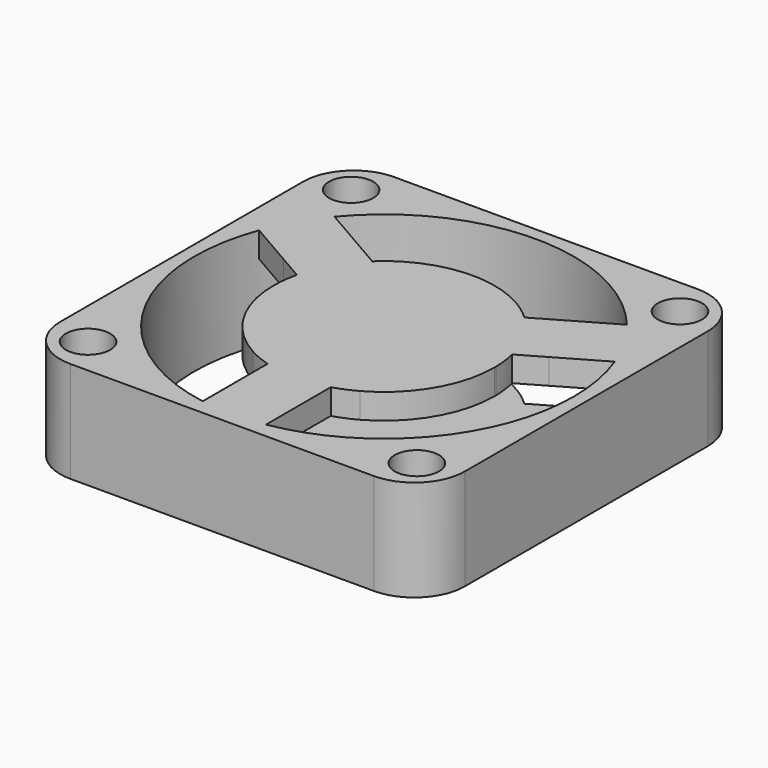
from build123d import *

# Parameters (mm, degrees)
F0_W     = 40.64
F0_H     = 40.64
F0_R     = 2.2225
F0_R_2   = 19.05
F1_DEPTH = 10.16
F3_DEPTH = 2.54
F5_DEPTH = 2.54
F6_R     = 5.08
F7_R     = 5.08
F8_R     = 5.08
F9_R     = 5.08


with BuildPart() as f1:
    # F0 (on Top) → F1 (new body)
    with BuildSketch(Plane.XY):
        with Locations((-48.7815736455, 48.0486563069)):
            Rectangle(F0_W, F0_H)
        with Locations((-65.2915736455, 31.5386563069)):
            Circle(F0_R, mode=Mode.SUBTRACT)
        with Locations((-32.2715736455, 31.5386563069)):
            Circle(F0_R, mode=Mode.SUBTRACT)
        with Locations((-48.7815736455, 48.0486563069)):
            Circle(F0_R_2, mode=Mode.SUBTRACT)
        with Locations((-65.2915736455, 64.5586563069)):
            Circle(F0_R, mode=Mode.SUBTRACT)
        with Locations((-32.2715736455, 64.5586563069)):
            Circle(F0_R, mode=Mode.SUBTRACT)
    extrude(amount=F1_DEPTH)

    # F2 (on face) → F3 (join)
    with BuildSketch(Plane(origin=(0, 0, 0), x_dir=(1, 0, 0), z_dir=(0, 0, -1))):
        with BuildLine():
            Line((-65.2793575876, -57.5736563069), (-58.405280945, -53.6049063069))
            ThreePointArc((-58.405280945, -53.6049063069), (-59.1066149083, -52.157327524), (-59.5916152386, -50.6236625213))
            Line((-59.5916152386, -50.6236625213), (-62.1043575876, -52.0743949928))
            Line((-62.1043575876, -52.0743949928), (-65.2793575876, -57.5736563069))
        make_face()
        with BuildLine():
            ThreePointArc((-65.2793575876, -57.5736563069), (-64.4250288468, -58.9199400104), (-63.4611079864, -60.1900636195))
            Line((-63.4611079864, -60.1900636195), (-58.9293575876, -57.5736563069))
            Line((-58.9293575876, -57.5736563069), (-65.2793575876, -57.5736563069))
        make_face()
        with BuildLine():
            ThreePointArc((-56.4166152386, -56.1229238353), (-57.5023079267, -54.9360687271), (-58.405280945, -53.6049063069))
            Line((-58.405280945, -53.6049063069), (-65.2793575876, -57.5736563069))
            Line((-65.2793575876, -57.5736563069), (-58.9293575876, -57.5736563069))
            Line((-58.9293575876, -57.5736563069), (-56.4166152386, -56.1229238353))
        make_face()
        with BuildLine():
            Line((-62.1043575876, -52.0743949928), (-66.6361079864, -54.6908023055))
            ThreePointArc((-66.6361079864, -54.6908023055), (-66.0181091052, -56.1606440624), (-65.2793575876, -57.5736563069))
            Line((-65.2793575876, -57.5736563069), (-62.1043575876, -52.0743949928))
        make_face()
        with BuildLine():
            Line((-58.405280945, -53.6049063069), (-48.7815736455, -48.0486563069))
            Line((-48.7815736455, -48.0486563069), (-51.9565736455, -48.0486563069))
            Line((-51.9565736455, -48.0486563069), (-51.9565736455, -46.2155692022))
            Line((-51.9565736455, -46.2155692022), (-59.5916152386, -50.6236625213))
            ThreePointArc((-59.5916152386, -50.6236625213), (-59.1066149083, -52.157327524), (-58.405280945, -53.6049063069))
        make_face()
        with BuildLine():
            Line((-50.3690736455, -50.7982869639), (-48.7815736455, -48.0486563069))
            Line((-48.7815736455, -48.0486563069), (-58.405280945, -53.6049063069))
            ThreePointArc((-58.405280945, -53.6049063069), (-57.5023079267, -54.9360687271), (-56.4166152386, -56.1229238353))
            Line((-56.4166152386, -56.1229238353), (-48.7815736455, -51.7148305162))
            Line((-48.7815736455, -51.7148305162), (-50.3690736455, -50.7982869639))
        make_face()
        with BuildLine():
            ThreePointArc((-43.0577609957, -57.5736563069), (-42.0628756431, -56.9000264496), (-41.1465320523, -56.1229238353))
            Line((-41.1465320523, -56.1229238353), (-48.7815736455, -51.7148305162))
            Line((-48.7815736455, -51.7148305162), (-56.4166152386, -56.1229238353))
            ThreePointArc((-56.4166152386, -56.1229238353), (-55.5002716478, -56.9000264496), (-54.5053862953, -57.5736563069))
            Line((-54.5053862953, -57.5736563069), (-43.0577609957, -57.5736563069))
        make_face()
        with BuildLine():
            Line((-51.9565736455, -46.2155692022), (-51.9565736455, -37.399382564))
            ThreePointArc((-51.9565736455, -37.399382564), (-53.0877360462, -37.8044080851), (-54.1685592916, -38.3291891456))
            Line((-54.1685592916, -38.3291891456), (-59.8923719414, -48.2431234681))
            ThreePointArc((-59.8923719414, -48.2431234681), (-59.8064340485, -49.4415343859), (-59.5916152386, -50.6236625213))
            Line((-59.5916152386, -50.6236625213), (-51.9565736455, -46.2155692022))
        make_face()
        Polygon((-51.9565736455, -48.0486563069), (-48.7815736455, -48.0486563069), (-50.3690736455, -45.2990256498), (-51.9565736455, -46.2155692022), align=None)
        Polygon((-47.1940736455, -50.7982869639), (-48.7815736455, -48.0486563069), (-50.3690736455, -50.7982869639), (-48.7815736455, -51.7148305162), align=None)
        Polygon((-45.6065736455, -48.0486563069), (-45.6065736455, -46.2155692022), (-47.1940736455, -45.2990256498), (-48.7815736455, -48.0486563069), align=None)
        with BuildLine():
            Line((-45.6065736455, -46.2155692022), (-45.6065736455, -37.399382564))
            ThreePointArc((-45.6065736455, -37.399382564), (-47.1772666638, -37.0525726696), (-48.7815736455, -36.9361563069))
            Line((-48.7815736455, -36.9361563069), (-48.7815736455, -48.0486563069))
            Line((-48.7815736455, -48.0486563069), (-47.1940736455, -45.2990256498))
            Line((-47.1940736455, -45.2990256498), (-45.6065736455, -46.2155692022))
        make_face()
        with BuildLine():
            Line((-48.7815736455, -48.0486563069), (-48.7815736455, -36.9361563069))
            ThreePointArc((-48.7815736455, -36.9361563069), (-50.3858806271, -37.0525726696), (-51.9565736455, -37.399382564))
            Line((-51.9565736455, -37.399382564), (-51.9565736455, -46.2155692022))
            Line((-51.9565736455, -46.2155692022), (-50.3690736455, -45.2990256498))
            Line((-50.3690736455, -45.2990256498), (-48.7815736455, -48.0486563069))
        make_face()
        with BuildLine():
            Line((-59.8923719414, -48.2431234681), (-54.1685592916, -38.3291891456))
            ThreePointArc((-54.1685592916, -38.3291891456), (-58.405280945, -42.4924063069), (-59.8923719414, -48.2431234681))
        make_face()
        with BuildLine():
            ThreePointArc((-54.5053862953, -57.5736563069), (-48.7815736455, -59.1611563069), (-43.0577609957, -57.5736563069))
            Line((-43.0577609957, -57.5736563069), (-54.5053862953, -57.5736563069))
        make_face()
        with BuildLine():
            ThreePointArc((-41.1465320523, -56.1229238353), (-40.0608393642, -54.9360687271), (-39.1578663459, -53.6049063069))
            Line((-39.1578663459, -53.6049063069), (-48.7815736455, -48.0486563069))
            Line((-48.7815736455, -48.0486563069), (-47.1940736455, -50.7982869639))
            Line((-47.1940736455, -50.7982869639), (-48.7815736455, -51.7148305162))
            Line((-48.7815736455, -51.7148305162), (-41.1465320523, -56.1229238353))
        make_face()
        with BuildLine():
            ThreePointArc((-39.1578663459, -53.6049063069), (-38.4565323826, -52.157327524), (-37.9715320523, -50.6236625213))
            Line((-37.9715320523, -50.6236625213), (-45.6065736455, -46.2155692022))
            Line((-45.6065736455, -46.2155692022), (-45.6065736455, -48.0486563069))
            Line((-45.6065736455, -48.0486563069), (-48.7815736455, -48.0486563069))
            Line((-48.7815736455, -48.0486563069), (-39.1578663459, -53.6049063069))
        make_face()
        with BuildLine():
            Line((-32.2837897034, -57.5736563069), (-39.1578663459, -53.6049063069))
            ThreePointArc((-39.1578663459, -53.6049063069), (-40.0608393642, -54.9360687271), (-41.1465320523, -56.1229238353))
            Line((-41.1465320523, -56.1229238353), (-38.6337897034, -57.5736563069))
            Line((-38.6337897034, -57.5736563069), (-32.2837897034, -57.5736563069))
        make_face()
        with BuildLine():
            ThreePointArc((-34.1020393045, -60.1900636195), (-33.1381184441, -58.9199400104), (-32.2837897034, -57.5736563069))
            Line((-32.2837897034, -57.5736563069), (-38.6337897034, -57.5736563069))
            Line((-38.6337897034, -57.5736563069), (-34.1020393045, -60.1900636195))
        make_face()
        with BuildLine():
            Line((-30.9270393045, -54.6908023055), (-35.4587897034, -52.0743949928))
            Line((-35.4587897034, -52.0743949928), (-32.2837897034, -57.5736563069))
            ThreePointArc((-32.2837897034, -57.5736563069), (-31.5450381858, -56.1606440624), (-30.9270393045, -54.6908023055))
        make_face()
        with BuildLine():
            Line((-35.4587897034, -52.0743949928), (-37.9715320523, -50.6236625213))
            ThreePointArc((-37.9715320523, -50.6236625213), (-38.4565323826, -52.157327524), (-39.1578663459, -53.6049063069))
            Line((-39.1578663459, -53.6049063069), (-32.2837897034, -57.5736563069))
            Line((-32.2837897034, -57.5736563069), (-35.4587897034, -52.0743949928))
        make_face()
        with BuildLine():
            Line((-37.6707753495, -48.2431234681), (-43.3945879993, -38.3291891456))
            ThreePointArc((-43.3945879993, -38.3291891456), (-44.4754112448, -37.8044080851), (-45.6065736455, -37.399382564))
            Line((-45.6065736455, -37.399382564), (-45.6065736455, -46.2155692022))
            Line((-45.6065736455, -46.2155692022), (-37.9715320523, -50.6236625213))
            ThreePointArc((-37.9715320523, -50.6236625213), (-37.7567132424, -49.4415343859), (-37.6707753495, -48.2431234681))
        make_face()
        with BuildLine():
            ThreePointArc((-37.6707753495, -48.2431234681), (-37.6694990796, -48.1458936101), (-37.6690736455, -48.0486563069))
            ThreePointArc((-37.6690736455, -48.0486563069), (-39.2068534343, -42.4084090491), (-43.3945879993, -38.3291891456))
            Line((-43.3945879993, -38.3291891456), (-37.6707753495, -48.2431234681))
        make_face()
        with BuildLine():
            ThreePointArc((-51.9565736455, -37.399382564), (-50.3858806271, -37.0525726696), (-48.7815736455, -36.9361563069))
            Line((-48.7815736455, -36.9361563069), (-48.7815736455, -28.9986563069))
            Line((-48.7815736455, -28.9986563069), (-51.9565736455, -34.4979176209))
            Line((-51.9565736455, -34.4979176209), (-51.9565736455, -37.399382564))
        make_face()
        with BuildLine():
            Line((-51.9565736455, -34.4979176209), (-48.7815736455, -28.9986563069))
            ThreePointArc((-48.7815736455, -28.9986563069), (-50.3746539038, -29.0653848477), (-51.9565736455, -29.2651029955))
            Line((-51.9565736455, -29.2651029955), (-51.9565736455, -34.4979176209))
        make_face()
        with BuildLine():
            ThreePointArc((-48.7815736455, -36.9361563069), (-47.1772666638, -37.0525726696), (-45.6065736455, -37.399382564))
            Line((-45.6065736455, -37.399382564), (-45.6065736455, -34.4979176209))
            Line((-45.6065736455, -34.4979176209), (-48.7815736455, -28.9986563069))
            Line((-48.7815736455, -28.9986563069), (-48.7815736455, -36.9361563069))
        make_face()
        with BuildLine():
            Line((-48.7815736455, -28.9986563069), (-45.6065736455, -34.4979176209))
            Line((-45.6065736455, -34.4979176209), (-45.6065736455, -29.2651029955))
            ThreePointArc((-45.6065736455, -29.2651029955), (-47.1884933871, -29.0653848477), (-48.7815736455, -28.9986563069))
        make_face()
    extrude(amount=-F3_DEPTH)

    # F4 (on face) → F5 (join)
    with BuildSketch(Plane.XY.offset(10.16)):
        with BuildLine():
            ThreePointArc((-65.2793575876, 57.5736563069), (-66.0181091052, 56.1606440624), (-66.6361079864, 54.6908023055))
            Line((-66.6361079864, 54.6908023055), (-62.1043575876, 52.0743949928))
            Line((-62.1043575876, 52.0743949928), (-65.2793575876, 57.5736563069))
        make_face()
        with BuildLine():
            ThreePointArc((-59.5916152386, 50.6236625213), (-59.1066149083, 52.157327524), (-58.405280945, 53.6049063069))
            Line((-58.405280945, 53.6049063069), (-65.2793575876, 57.5736563069))
            Line((-65.2793575876, 57.5736563069), (-62.1043575876, 52.0743949928))
            Line((-62.1043575876, 52.0743949928), (-59.5916152386, 50.6236625213))
        make_face()
        with BuildLine():
            Line((-65.2793575876, 57.5736563069), (-58.405280945, 53.6049063069))
            ThreePointArc((-58.405280945, 53.6049063069), (-57.5023079267, 54.9360687271), (-56.4166152386, 56.1229238353))
            Line((-56.4166152386, 56.1229238353), (-58.9293575876, 57.5736563069))
            Line((-58.9293575876, 57.5736563069), (-65.2793575876, 57.5736563069))
        make_face()
        with BuildLine():
            Line((-58.9293575876, 57.5736563069), (-63.4611079864, 60.1900636195))
            ThreePointArc((-63.4611079864, 60.1900636195), (-64.4250288468, 58.9199400104), (-65.2793575876, 57.5736563069))
            Line((-65.2793575876, 57.5736563069), (-58.9293575876, 57.5736563069))
        make_face()
        with BuildLine():
            Line((-48.7815736455, 51.7148305162), (-41.1465320523, 56.1229238353))
            ThreePointArc((-41.1465320523, 56.1229238353), (-42.0628756431, 56.9000264496), (-43.0577609957, 57.5736563069))
            Line((-43.0577609957, 57.5736563069), (-54.5053862953, 57.5736563069))
            ThreePointArc((-54.5053862953, 57.5736563069), (-55.5002716478, 56.9000264496), (-56.4166152386, 56.1229238353))
            Line((-56.4166152386, 56.1229238353), (-48.7815736455, 51.7148305162))
        make_face()
        with BuildLine():
            Line((-54.5053862953, 57.5736563069), (-43.0577609957, 57.5736563069))
            ThreePointArc((-43.0577609957, 57.5736563069), (-48.7815736455, 59.1611563069), (-54.5053862953, 57.5736563069))
        make_face()
        with BuildLine():
            Line((-58.405280945, 53.6049063069), (-48.7815736455, 48.0486563069))
            Line((-48.7815736455, 48.0486563069), (-50.3690736455, 50.7982869639))
            Line((-50.3690736455, 50.7982869639), (-48.7815736455, 51.7148305162))
            Line((-48.7815736455, 51.7148305162), (-56.4166152386, 56.1229238353))
            ThreePointArc((-56.4166152386, 56.1229238353), (-57.5023079267, 54.9360687271), (-58.405280945, 53.6049063069))
        make_face()
        with BuildLine():
            Line((-51.9565736455, 48.0486563069), (-48.7815736455, 48.0486563069))
            Line((-48.7815736455, 48.0486563069), (-58.405280945, 53.6049063069))
            ThreePointArc((-58.405280945, 53.6049063069), (-59.1066149083, 52.157327524), (-59.5916152386, 50.6236625213))
            Line((-59.5916152386, 50.6236625213), (-51.9565736455, 46.2155692022))
            Line((-51.9565736455, 46.2155692022), (-51.9565736455, 48.0486563069))
        make_face()
        with BuildLine():
            ThreePointArc((-59.8923719414, 48.2431234681), (-58.405280945, 42.4924063069), (-54.1685592916, 38.3291891456))
            Line((-54.1685592916, 38.3291891456), (-59.8923719414, 48.2431234681))
        make_face()
        with BuildLine():
            ThreePointArc((-54.1685592916, 38.3291891456), (-53.0877360462, 37.8044080851), (-51.9565736455, 37.399382564))
            Line((-51.9565736455, 37.399382564), (-51.9565736455, 46.2155692022))
            Line((-51.9565736455, 46.2155692022), (-59.5916152386, 50.6236625213))
            ThreePointArc((-59.5916152386, 50.6236625213), (-59.8064340485, 49.4415343859), (-59.8923719414, 48.2431234681))
            Line((-59.8923719414, 48.2431234681), (-54.1685592916, 38.3291891456))
        make_face()
        with BuildLine():
            ThreePointArc((-51.9565736455, 37.399382564), (-50.3858806271, 37.0525726696), (-48.7815736455, 36.9361563069))
            Line((-48.7815736455, 36.9361563069), (-48.7815736455, 48.0486563069))
            Line((-48.7815736455, 48.0486563069), (-50.3690736455, 45.2990256498))
            Line((-50.3690736455, 45.2990256498), (-51.9565736455, 46.2155692022))
            Line((-51.9565736455, 46.2155692022), (-51.9565736455, 37.399382564))
        make_face()
        with BuildLine():
            ThreePointArc((-48.7815736455, 36.9361563069), (-47.1772666638, 37.0525726696), (-45.6065736455, 37.399382564))
            Line((-45.6065736455, 37.399382564), (-45.6065736455, 46.2155692022))
            Line((-45.6065736455, 46.2155692022), (-47.1940736455, 45.2990256498))
            Line((-47.1940736455, 45.2990256498), (-48.7815736455, 48.0486563069))
            Line((-48.7815736455, 48.0486563069), (-48.7815736455, 36.9361563069))
        make_face()
        Polygon((-50.3690736455, 45.2990256498), (-48.7815736455, 48.0486563069), (-51.9565736455, 48.0486563069), (-51.9565736455, 46.2155692022), align=None)
        with BuildLine():
            Line((-48.7815736455, 48.0486563069), (-39.1578663459, 53.6049063069))
            ThreePointArc((-39.1578663459, 53.6049063069), (-40.0608393642, 54.9360687271), (-41.1465320523, 56.1229238353))
            Line((-41.1465320523, 56.1229238353), (-48.7815736455, 51.7148305162))
            Line((-48.7815736455, 51.7148305162), (-47.1940736455, 50.7982869639))
            Line((-47.1940736455, 50.7982869639), (-48.7815736455, 48.0486563069))
        make_face()
        with BuildLine():
            Line((-45.6065736455, 46.2155692022), (-37.9715320523, 50.6236625213))
            ThreePointArc((-37.9715320523, 50.6236625213), (-38.4565323826, 52.157327524), (-39.1578663459, 53.6049063069))
            Line((-39.1578663459, 53.6049063069), (-48.7815736455, 48.0486563069))
            Line((-48.7815736455, 48.0486563069), (-45.6065736455, 48.0486563069))
            Line((-45.6065736455, 48.0486563069), (-45.6065736455, 46.2155692022))
        make_face()
        Polygon((-47.1940736455, 45.2990256498), (-45.6065736455, 46.2155692022), (-45.6065736455, 48.0486563069), (-48.7815736455, 48.0486563069), align=None)
        Polygon((-50.3690736455, 50.7982869639), (-48.7815736455, 48.0486563069), (-47.1940736455, 50.7982869639), (-48.7815736455, 51.7148305162), align=None)
        with BuildLine():
            Line((-38.6337897034, 57.5736563069), (-32.2837897034, 57.5736563069))
            ThreePointArc((-32.2837897034, 57.5736563069), (-33.1381184441, 58.9199400104), (-34.1020393045, 60.1900636195))
            Line((-34.1020393045, 60.1900636195), (-38.6337897034, 57.5736563069))
        make_face()
        with BuildLine():
            ThreePointArc((-41.1465320523, 56.1229238353), (-40.0608393642, 54.9360687271), (-39.1578663459, 53.6049063069))
            Line((-39.1578663459, 53.6049063069), (-32.2837897034, 57.5736563069))
            Line((-32.2837897034, 57.5736563069), (-38.6337897034, 57.5736563069))
            Line((-38.6337897034, 57.5736563069), (-41.1465320523, 56.1229238353))
        make_face()
        with BuildLine():
            ThreePointArc((-39.1578663459, 53.6049063069), (-38.4565323826, 52.157327524), (-37.9715320523, 50.6236625213))
            Line((-37.9715320523, 50.6236625213), (-35.4587897034, 52.0743949928))
            Line((-35.4587897034, 52.0743949928), (-32.2837897034, 57.5736563069))
            Line((-32.2837897034, 57.5736563069), (-39.1578663459, 53.6049063069))
        make_face()
        with BuildLine():
            Line((-32.2837897034, 57.5736563069), (-35.4587897034, 52.0743949928))
            Line((-35.4587897034, 52.0743949928), (-30.9270393045, 54.6908023055))
            ThreePointArc((-30.9270393045, 54.6908023055), (-31.5450381858, 56.1606440624), (-32.2837897034, 57.5736563069))
        make_face()
        with BuildLine():
            Line((-43.3945879993, 38.3291891456), (-37.6707753495, 48.2431234681))
            ThreePointArc((-37.6707753495, 48.2431234681), (-37.7567132424, 49.4415343859), (-37.9715320523, 50.6236625213))
            Line((-37.9715320523, 50.6236625213), (-45.6065736455, 46.2155692022))
            Line((-45.6065736455, 46.2155692022), (-45.6065736455, 37.399382564))
            ThreePointArc((-45.6065736455, 37.399382564), (-44.4754112448, 37.8044080851), (-43.3945879993, 38.3291891456))
        make_face()
        with BuildLine():
            ThreePointArc((-43.3945879993, 38.3291891456), (-39.2068534343, 42.4084090491), (-37.6690736455, 48.0486563069))
            ThreePointArc((-37.6690736455, 48.0486563069), (-37.6694990796, 48.1458936101), (-37.6707753495, 48.2431234681))
            Line((-37.6707753495, 48.2431234681), (-43.3945879993, 38.3291891456))
        make_face()
        with BuildLine():
            Line((-45.6065736455, 34.4979176209), (-45.6065736455, 37.399382564))
            ThreePointArc((-45.6065736455, 37.399382564), (-47.1772666638, 37.0525726696), (-48.7815736455, 36.9361563069))
            Line((-48.7815736455, 36.9361563069), (-48.7815736455, 28.9986563069))
            Line((-48.7815736455, 28.9986563069), (-45.6065736455, 34.4979176209))
        make_face()
        with BuildLine():
            Line((-48.7815736455, 28.9986563069), (-48.7815736455, 36.9361563069))
            ThreePointArc((-48.7815736455, 36.9361563069), (-50.3858806271, 37.0525726696), (-51.9565736455, 37.399382564))
            Line((-51.9565736455, 37.399382564), (-51.9565736455, 34.4979176209))
            Line((-51.9565736455, 34.4979176209), (-48.7815736455, 28.9986563069))
        make_face()
        with BuildLine():
            ThreePointArc((-51.9565736455, 29.2651029955), (-50.3746539038, 29.0653848477), (-48.7815736455, 28.9986563069))
            Line((-48.7815736455, 28.9986563069), (-51.9565736455, 34.4979176209))
            Line((-51.9565736455, 34.4979176209), (-51.9565736455, 29.2651029955))
        make_face()
        with BuildLine():
            Line((-45.6065736455, 29.2651029955), (-45.6065736455, 34.4979176209))
            Line((-45.6065736455, 34.4979176209), (-48.7815736455, 28.9986563069))
            ThreePointArc((-48.7815736455, 28.9986563069), (-47.1884933871, 29.0653848477), (-45.6065736455, 29.2651029955))
        make_face()
    extrude(amount=-F5_DEPTH)

    # F6
    f6_edges = [f1.edges().sort_by_distance(p)[0] for p in [
        (-69.101574, 68.368656, 5.08),
    ]]
    fillet(f6_edges, radius=F6_R)

    # F7
    f7_edges = [f1.edges().sort_by_distance(p)[0] for p in [
        (-28.461574, 68.368656, 5.08),
    ]]
    fillet(f7_edges, radius=F7_R)

    # F8
    f8_edges = [f1.edges().sort_by_distance(p)[0] for p in [
        (-69.101574, 27.728656, 5.08),
    ]]
    fillet(f8_edges, radius=F8_R)

    # F9
    f9_edges = [f1.edges().sort_by_distance(p)[0] for p in [
        (-28.461574, 27.728656, 5.08),
    ]]
    fillet(f9_edges, radius=F9_R)


solid = f1.part
